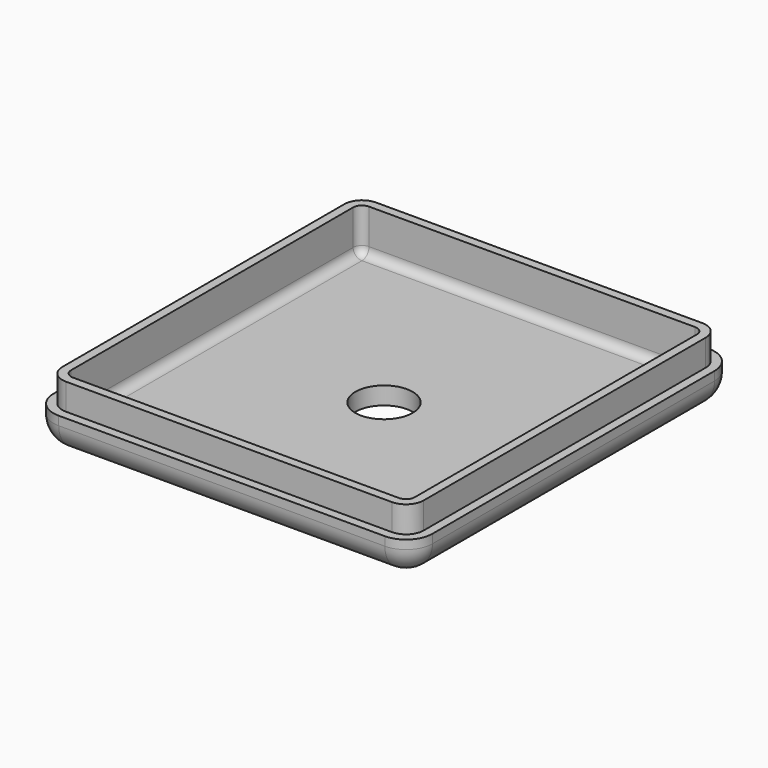
from build123d import *

# Parameters (mm, degrees)
F0_W     = 43
F0_H     = 46
F1_DEPTH = 7
F2_R     = 3
F3_T     = -2
F4_R     = 3.25
F5_DEPTH = 2
F6_W     = 51.836722
F6_H     = 50.070026
F7_DEPTH = 3


with BuildPart() as f1:
    # F0 (on Top) → F1 (new body)
    with BuildSketch(Plane.XY):
        Rectangle(F0_W, F0_H)
    extrude(amount=F1_DEPTH)

    # F2
    f2_edges = [f1.edges().sort_by_distance(p)[0] for p in [
        (0, -23, 0),
        (21.5, 0, 0),
        (0, 23, 0),
        (-21.5, 0, 0),
        (21.5, 23, 3.5),
        (21.5, -23, 3.5),
        (-21.5, 23, 3.5),
        (-21.5, -23, 3.5),
    ]]
    fillet(f2_edges, radius=F2_R)

    # F3
    f3_openings = [f1.faces().sort_by_distance(p)[0] for p in [
        (0, 0, 7),
    ]]
    offset(amount=F3_T, openings=f3_openings)

    # F4 (on face) → F5 (cut, through all)
    with BuildSketch(Plane.XY.offset(2)):
        Circle(F4_R)
    extrude(amount=-F5_DEPTH, mode=Mode.SUBTRACT)

    # F6 (on face) → F7 (cut)
    with BuildSketch(Plane.XY.offset(7)):
        Rectangle(F6_W, F6_H)
        with BuildLine():
            ThreePointArc((18.5, 22), (19.914214, 21.414214), (20.5, 20))
            Line((20.5, 20), (20.5, -20))
            ThreePointArc((20.5, -20), (19.914214, -21.414214), (18.5, -22))
            Line((18.5, -22), (-18.5, -22))
            ThreePointArc((-18.5, -22), (-19.914214, -21.414214), (-20.5, -20))
            Line((-20.5, -20), (-20.5, 20))
            ThreePointArc((-20.5, 20), (-19.914214, 21.414214), (-18.5, 22))
            Line((-18.5, 22), (18.5, 22))
        make_face(mode=Mode.SUBTRACT)
    extrude(amount=-F7_DEPTH, mode=Mode.SUBTRACT)


solid = f1.part
